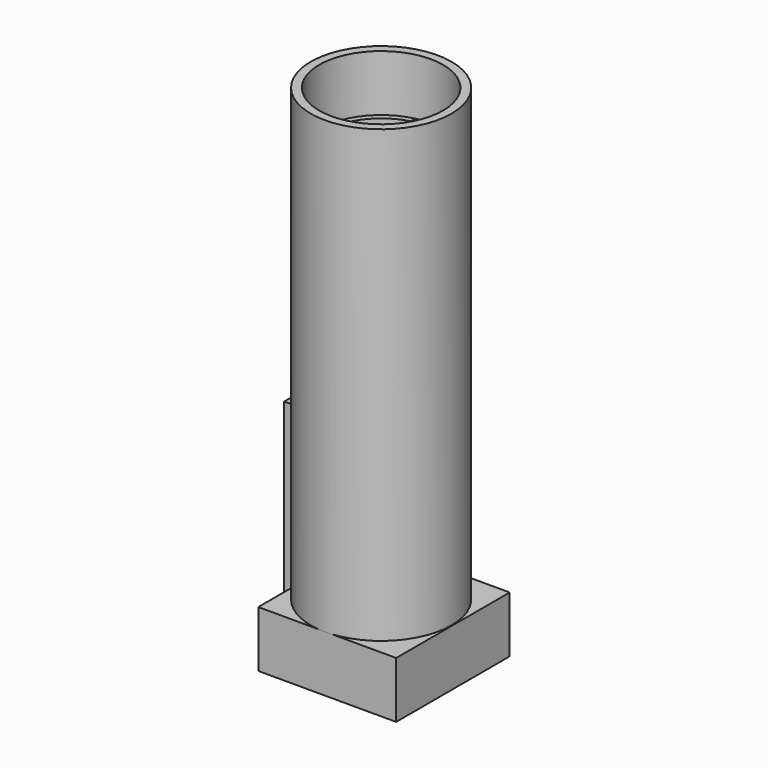
from build123d import *

# Parameters (mm, degrees)
SKETCH_R        = 12.5
PAD_DEPTH       = 80
SKETCH001_R     = 11
POCKET_DEPTH    = 10
SKETCH002_R     = 10
POCKET001_DEPTH = 70.001
SKETCH003_W     = 5
SKETCH003_H     = 2
POCKET002_DEPTH = 70
SKETCH004_W     = 24.485672
SKETCH004_H     = 25.205176
PAD001_DEPTH    = 10
SKETCH005_W     = 5.898827
SKETCH005_H     = 32.91927
PAD002_DEPTH    = 3


with BuildPart() as part:
    # Sketch → Pad (new body)
    with BuildSketch(Plane.XY):
        Circle(SKETCH_R)
    extrude(amount=PAD_DEPTH)

    # Sketch001 (on Face3 of Pad) → Pocket (cut)
    with BuildSketch(Plane.XY.offset(80)):
        Circle(SKETCH001_R)
    extrude(amount=-POCKET_DEPTH, mode=Mode.SUBTRACT)

    # Sketch002 (on Face5 of Pocket) → Pocket001 (cut, through all)
    with BuildSketch(Plane.XY.offset(70)):
        Circle(SKETCH002_R)
    extrude(amount=-POCKET001_DEPTH, mode=Mode.SUBTRACT)

    # Sketch003 (on Face2 of Pocket001) → Pocket002 (cut)
    with BuildSketch(Plane(origin=(0, 0, 0), x_dir=(1, 0, 0), z_dir=(0, 0, -1))):
        with Locations((0, -10.651299)):
            Rectangle(SKETCH003_W, SKETCH003_H)
    extrude(amount=-POCKET002_DEPTH, mode=Mode.SUBTRACT)

    # Sketch004 (on Face2 of Pocket002) → Pad001 (join)
    with BuildSketch(Plane(origin=(0, 0, 0), x_dir=(1, 0, 0), z_dir=(0, 0, -1))):
        with Locations((0.385492, -0.153396)):
            Rectangle(SKETCH004_W, SKETCH004_H)
    extrude(amount=PAD001_DEPTH)

    # Sketch005 (on Face7 of Pad001) → Pad002 (join)
    with BuildSketch(Plane(origin=(-11.857344, 0, 0), x_dir=(0, -1, 0), z_dir=(-1, 0, 0))):
        with Locations((0.006047, 10.84297)):
            Rectangle(SKETCH005_W, SKETCH005_H)
    extrude(amount=PAD002_DEPTH)


solid = part.part
